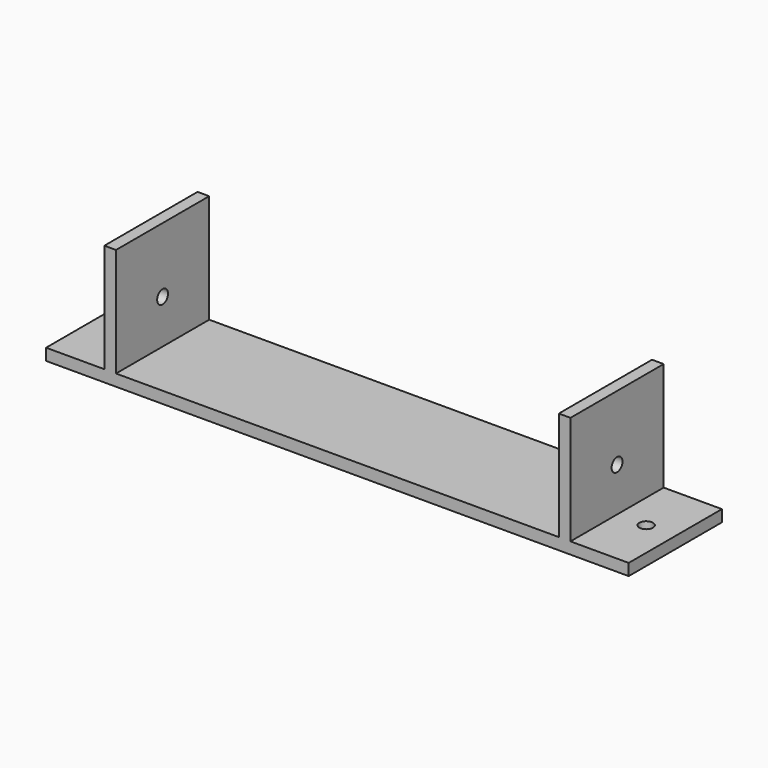
from build123d import *

# Parameters (mm, degrees)
F0_W     = 3
F0_H     = 30
F0_W_2   = 114
F1_DEPTH = 3
F2_DEPTH = 28
F0_W_3   = 15
F0_R     = 1.75
F3_DEPTH = 3
F4_R     = 1.75
F5_DEPTH = 200


with BuildPart() as f1:
    # F0 (on Top) → F1 (new body)
    with BuildSketch(Plane.XY):
        with Locations((-1.5, 15)):
            Rectangle(F0_W, F0_H)
        with Locations((57, 15)):
            Rectangle(F0_W_2, F0_H)
        with Locations((115.5, 15)):
            Rectangle(F0_W, F0_H)
    extrude(amount=-F1_DEPTH)

    # F0 (on Top) → F2 (join)
    with BuildSketch(Plane.XY):
        with Locations((-1.5, 15)):
            Rectangle(F0_W, F0_H)
        with Locations((115.5, 15)):
            Rectangle(F0_W, F0_H)
    extrude(amount=F2_DEPTH)

    # F0 (on Top) → F3 (join)
    with BuildSketch(Plane.XY):
        with Locations((-10.5, 15)):
            Rectangle(F0_W_3, F0_H)
        with Locations((-10.5, 15)):
            Circle(F0_R, mode=Mode.SUBTRACT)
        with Locations((124.5, 15)):
            Rectangle(F0_W_3, F0_H)
        with Locations((124.5, 15)):
            Circle(F0_R, mode=Mode.SUBTRACT)
    extrude(amount=-F3_DEPTH)

    # F4 (on face) → F5 (cut)
    with BuildSketch(Plane.YZ.offset(117)):
        with Locations((15, 11.299537)):
            Circle(F4_R)
    extrude(amount=-F5_DEPTH, mode=Mode.SUBTRACT)


solid = f1.part
